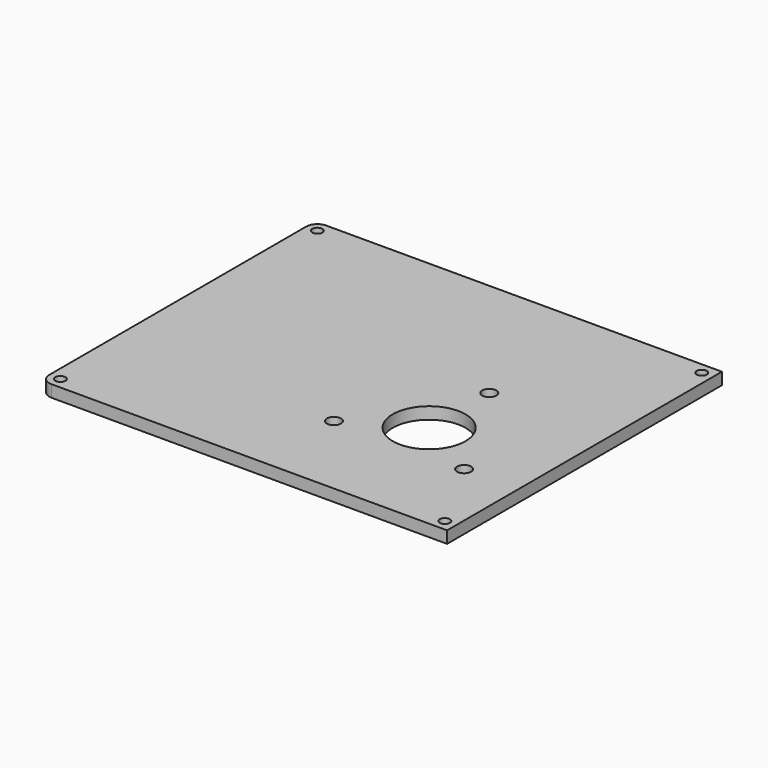
from build123d import *

# Parameters (mm, degrees)
F0_R     = 2.15265
F0_R_2   = 3
F0_R_3   = 15.497899
F1_DEPTH = 5.08


with BuildPart() as f1:
    # F0 (on Top) → F1 (new body)
    with BuildSketch(Plane.XY):
        with BuildLine():
            Line((50.8, 92.272936), (-117.584017, 92.272936))
            ThreePointArc((-117.584017, 92.272936), (-120.951629, 90.878016), (-122.346517, 87.510391))
            Line((-122.346517, 87.510391), (-122.345227, -49.059594))
            ThreePointArc((-122.345227, -49.059594), (-120.990568, -52.498598), (-117.584017, -53.932913))
            Line((-117.584017, -53.932913), (50.8, -53.932913))
            Line((50.8, -53.932913), (50.8, 92.272936))
        make_face()
        with Locations((-117.584017, -49.170413)):
            Circle(F0_R, mode=Mode.SUBTRACT)
        with Locations((46.0375, -49.170413)):
            Circle(F0_R, mode=Mode.SUBTRACT)
        with Locations((-27.712823, -16.000006)):
            Circle(F0_R_2, mode=Mode.SUBTRACT)
        Circle(F0_R_3, mode=Mode.SUBTRACT)
        with Locations((27.712823, -16.000006)):
            Circle(F0_R_2, mode=Mode.SUBTRACT)
        with Locations((-117.584017, 87.510436)):
            Circle(F0_R, mode=Mode.SUBTRACT)
        with Locations((0, 32.000012)):
            Circle(F0_R_2, mode=Mode.SUBTRACT)
        with Locations((46.0375, 87.510436)):
            Circle(F0_R, mode=Mode.SUBTRACT)
    extrude(amount=F1_DEPTH)


solid = f1.part
